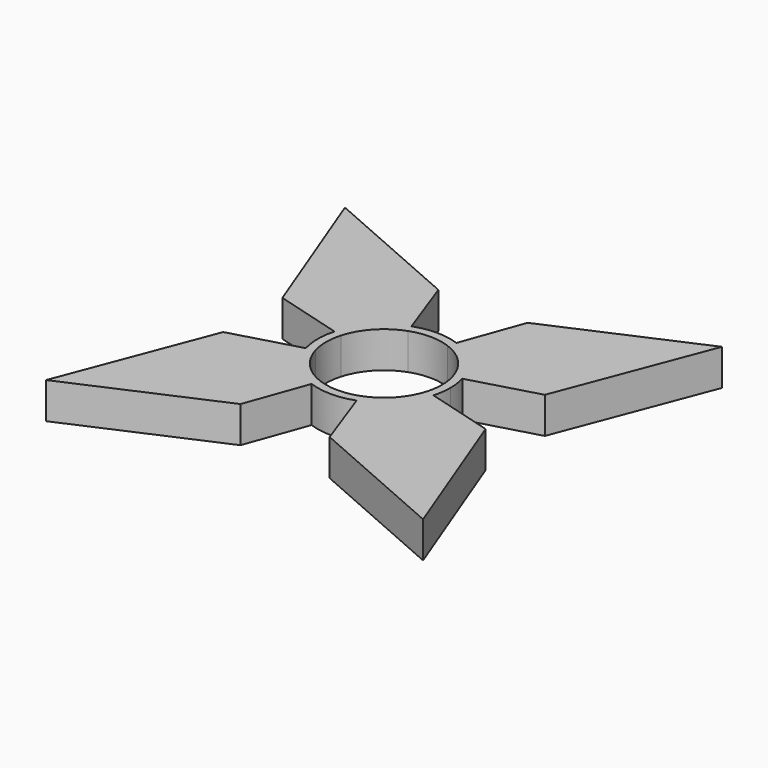
from build123d import *

# Parameters (mm, degrees)
F1_DEPTH = 6.9342


with BuildPart() as f1:
    # F0 (on Top) → F1 (new body)
    with BuildSketch(Plane.XY):
        with BuildLine():
            ThreePointArc((-10.6827778085, -3.0139373476), (-11.0998, 0), (-10.6827778085, 3.0139373476))
            Line((-10.6827778085, 3.0139373476), (-12.2228579044, 3.4484409011))
            ThreePointArc((-12.2228579044, 3.4484409011), (-12.7, 0), (-12.2228579044, -3.4484409011))
            Line((-12.2228579044, -3.4484409011), (-10.6827778085, -3.0139373476))
        make_face()
        with BuildLine():
            Line((-12.2228579044, 3.4484409011), (-10.6827778085, 3.0139373476))
            ThreePointArc((-10.6827778085, 3.0139373476), (-8.1222062664, 7.5654031886), (-3.7637304934, 10.4422168534))
            Line((-3.7637304934, 10.4422168534), (-4.3063277957, 11.947616537))
            ThreePointArc((-4.3063277957, 11.947616537), (-6.9801642696, 10.6097741149), (-9.2671370147, 8.6839030137))
            ThreePointArc((-9.2671370147, 8.6839030137), (-11.0592715081, 6.2435978179), (-12.2228579044, 3.4484409011))
        make_face()
        with BuildLine():
            Line((-25.1191947609, 7.0868907496), (-12.2228579044, 3.4484409011))
            ThreePointArc((-12.2228579044, 3.4484409011), (-11.0592715081, 6.2435978179), (-9.2671370147, 8.6839030137))
            Line((-9.2671370147, 8.6839030137), (-36.0834566917, 35.7578544264))
            Line((-36.0834566917, 35.7578544264), (-25.1191947609, 7.0868907496))
        make_face()
        with BuildLine():
            Line((-4.3063277957, 11.947616537), (-3.7637304934, 10.4422168534))
            ThreePointArc((-3.7637304934, 10.4422168534), (0, 11.0998), (3.7637304934, 10.4422168534))
            Line((3.7637304934, 10.4422168534), (4.3063277957, 11.947616537))
            ThreePointArc((4.3063277957, 11.947616537), (0, 12.7), (-4.3063277957, 11.947616537))
        make_face()
        with BuildLine():
            ThreePointArc((-3.7637304934, -10.4422168534), (-8.1222062664, -7.5654031886), (-10.6827778085, -3.0139373476))
            Line((-10.6827778085, -3.0139373476), (-12.2228579044, -3.4484409011))
            ThreePointArc((-12.2228579044, -3.4484409011), (-9.2931421812, -8.6560677216), (-4.3063277957, -11.947616537))
            Line((-4.3063277957, -11.947616537), (-3.7637304934, -10.4422168534))
        make_face()
        with BuildLine():
            Line((-36.0834566917, 35.7578544264), (-9.2671370147, 8.6839030137))
            ThreePointArc((-9.2671370147, 8.6839030137), (-6.9801642696, 10.6097741149), (-4.3063277957, 11.947616537))
            Line((-4.3063277957, 11.947616537), (-8.5326954722, 23.673389107))
            Line((-8.5326954722, 23.673389107), (-36.0834566917, 35.7578544264))
        make_face()
        with BuildLine():
            ThreePointArc((-4.3063277957, -11.947616537), (-9.2931421812, -8.6560677216), (-12.2228579044, -3.4484409011))
            Line((-12.2228579044, -3.4484409011), (-25.1191947609, -7.0868907496))
            Line((-25.1191947609, -7.0868907496), (-36.0834566917, -35.7578544264))
            Line((-36.0834566917, -35.7578544264), (-8.5326954722, -23.673389107))
            Line((-8.5326954722, -23.673389107), (-4.3063277957, -11.947616537))
        make_face()
        with BuildLine():
            Line((4.3063277957, 11.947616537), (3.7637304934, 10.4422168534))
            ThreePointArc((3.7637304934, 10.4422168534), (8.1222062664, 7.5654031886), (10.6827778085, 3.0139373476))
            Line((10.6827778085, 3.0139373476), (12.2228579044, 3.4484409011))
            ThreePointArc((12.2228579044, 3.4484409011), (9.2931421812, 8.6560677216), (4.3063277957, 11.947616537))
        make_face()
        with BuildLine():
            ThreePointArc((3.7637304934, -10.4422168534), (0, -11.0998), (-3.7637304934, -10.4422168534))
            Line((-3.7637304934, -10.4422168534), (-4.3063277957, -11.947616537))
            ThreePointArc((-4.3063277957, -11.947616537), (0, -12.7), (4.3063277957, -11.947616537))
            Line((4.3063277957, -11.947616537), (3.7637304934, -10.4422168534))
        make_face()
        with BuildLine():
            Line((8.5326954722, 23.673389107), (4.3063277957, 11.947616537))
            ThreePointArc((4.3063277957, 11.947616537), (9.2931421812, 8.6560677216), (12.2228579044, 3.4484409011))
            Line((12.2228579044, 3.4484409011), (25.1191947609, 7.0868907496))
            Line((25.1191947609, 7.0868907496), (36.0834566917, 35.7578544264))
            Line((36.0834566917, 35.7578544264), (8.5326954722, 23.673389107))
        make_face()
        with BuildLine():
            Line((12.2228579044, 3.4484409011), (10.6827778085, 3.0139373476))
            ThreePointArc((10.6827778085, 3.0139373476), (10.9950501854, 1.5213255604), (11.0998, 0))
            ThreePointArc((11.0998, 0), (10.9950501854, -1.5213255604), (10.6827778085, -3.0139373476))
            Line((10.6827778085, -3.0139373476), (12.2228579044, -3.4484409011))
            ThreePointArc((12.2228579044, -3.4484409011), (12.5801489535, -1.7406470943), (12.7, 0))
            ThreePointArc((12.7, 0), (12.5801489535, 1.7406470943), (12.2228579044, 3.4484409011))
        make_face()
        with BuildLine():
            ThreePointArc((10.6827778085, -3.0139373476), (8.1222062664, -7.5654031886), (3.7637304934, -10.4422168534))
            Line((3.7637304934, -10.4422168534), (4.3063277957, -11.947616537))
            ThreePointArc((4.3063277957, -11.947616537), (9.2931421812, -8.6560677216), (12.2228579044, -3.4484409011))
            Line((12.2228579044, -3.4484409011), (10.6827778085, -3.0139373476))
        make_face()
        with BuildLine():
            ThreePointArc((12.2228579044, -3.4484409011), (9.2931421812, -8.6560677216), (4.3063277957, -11.947616537))
            Line((4.3063277957, -11.947616537), (8.5326954722, -23.673389107))
            Line((8.5326954722, -23.673389107), (36.0834566917, -35.7578544264))
            Line((36.0834566917, -35.7578544264), (25.1191947609, -7.0868907496))
            Line((25.1191947609, -7.0868907496), (12.2228579044, -3.4484409011))
        make_face()
    extrude(amount=F1_DEPTH)


solid = f1.part
